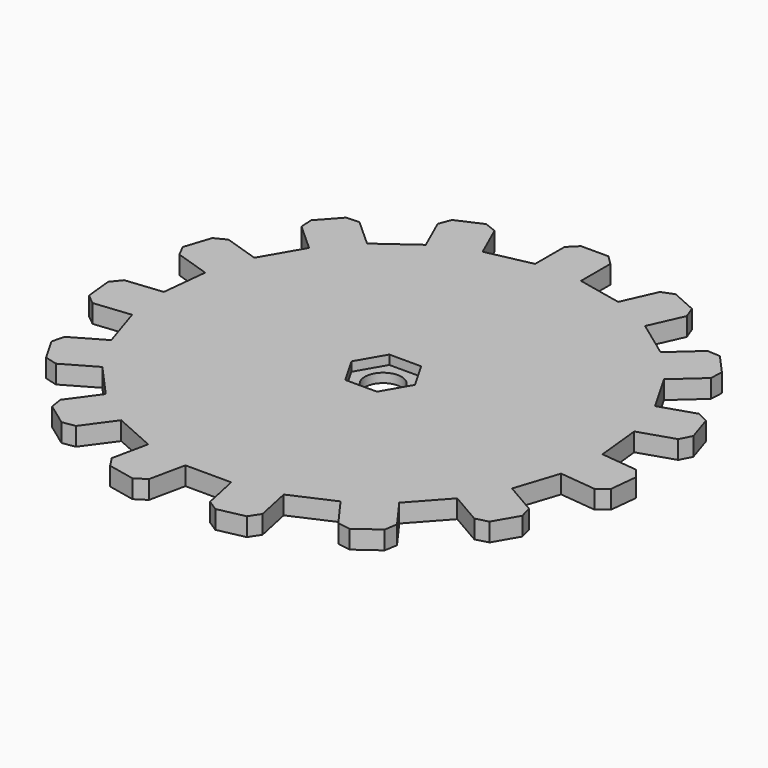
from build123d import *

# Parameters (mm, degrees)
F1_DEPTH  = 10
F2_DEPTH  = 25
F3_DEPTH  = 25
F4_DEPTH  = 25
F5_DEPTH  = 25
F6_DEPTH  = 25
F7_DEPTH  = 25
F8_DEPTH  = 25
F9_DEPTH  = 25
F10_DEPTH = 25
F11_DEPTH = 25
F12_DEPTH = 25
F13_DEPTH = 25
F14_DEPTH = 25
F15_DEPTH = 25
F16_DEPTH = 25
F17_SIZE  = 5
F0_R      = 10
F18_DEPTH = 5


with BuildPart() as f1:
    # F0 (on Top) → F1 (new body)
    with BuildSketch(Plane.XY):
        Polygon((-96.6750791953, 70.3877321793), (-109.1969291758, 48.7497121768), (-116.9463493664, 24.9810958252), (-119.5846529188, 0.1206857134), (-116.9965333079, -24.7449989432), (-109.2951037797, -48.5292084063), (-96.8169537602, -70.1924585931), (-80.1074382822, -88.7879615186), (-59.8968433531, -103.5030044738), (-37.0684689525, -113.6944694709), (-12.6200245844, -118.9169405856), (12.3799754156, -118.9421707699), (36.8389110842, -113.7690573437), (59.6878095658, -103.6236901871), (79.9280643554, -88.9494705277), (96.6750791953, -70.3877321793), (109.1969291758, -48.7497121768), (116.9463493664, -24.9810958252), (119.5846529188, -0.1206857134), (116.9965333079, 24.7449989432), (109.2951037797, 48.5292084063), (96.8169537602, 70.1924585931), (80.1074382822, 88.7879615186), (59.8968433531, 103.5030044738), (37.0684689525, 113.6944694709), (12.6200245844, 118.9169405856), (-12.3799754156, 118.9421707699), (-36.8389110842, 113.7690573437), (-59.6878095658, 103.6236901871), (-79.9280643554, 88.9494705277), align=None)
        Polygon((-8.6753877305, -14.9912523735), (-17.3204992552, 0.0174799755), (-8.6451115247, 15.008732349), (8.6753877305, 14.9912523735), (17.3204992552, -0.0174799755), (8.6451115247, -15.008732349), align=None, mode=Mode.SUBTRACT)
    extrude(amount=F1_DEPTH)

    # F2 (add): a face of the model
    f2_faces = [f1.faces().sort_by_distance(p)[0] for p in [
        (0.1200245844, 118.9295556778, 5),
    ]]
    extrude(f2_faces, amount=F2_DEPTH)

    # F3 (add): a face of the model
    f3_faces = [f1.faces().sort_by_distance(p)[0] for p in [
        (-48.263360325, 108.6963737654, 5),
    ]]
    extrude(f3_faces, amount=F3_DEPTH)

    # F4 (add): a face of the model
    f4_faces = [f1.faces().sort_by_distance(p)[0] for p in [
        (-88.3015717753, 79.6686013535, 5),
    ]]
    extrude(f4_faces, amount=F4_DEPTH)

    # F5 (add): a face of the model
    f5_faces = [f1.faces().sort_by_distance(p)[0] for p in [
        (-113.0716392711, 36.865404001, 5),
    ]]
    extrude(f5_faces, amount=F5_DEPTH)

    # F6 (add): a face of the model
    f6_faces = [f1.faces().sort_by_distance(p)[0] for p in [
        (-118.2905931133, -12.3121566149, 5),
    ]]
    extrude(f6_faces, amount=F6_DEPTH)

    # F7 (add): a face of the model
    f7_faces = [f1.faces().sort_by_distance(p)[0] for p in [
        (48.4826561528, 108.5987369723, 5),
    ]]
    extrude(f7_faces, amount=F7_DEPTH)

    # F8 (add): a face of the model
    f8_faces = [f1.faces().sort_by_distance(p)[0] for p in [
        (88.4621960212, 79.4902100558, 5),
    ]]
    extrude(f8_faces, amount=F8_DEPTH)

    # F9 (add): a face of the model
    f9_faces = [f1.faces().sort_by_distance(p)[0] for p in [
        (113.1458185438, 36.6371036748, 5),
    ]]
    extrude(f9_faces, amount=F9_DEPTH)

    # F10 (add): a face of the model
    f10_faces = [f1.faces().sort_by_distance(p)[0] for p in [
        (118.2655011426, -12.5508907693, 5),
    ]]
    extrude(f10_faces, amount=F10_DEPTH)

    # F11 (add): a face of the model
    f11_faces = [f1.faces().sort_by_distance(p)[0] for p in [
        (102.9360041856, -59.5687221781, 5),
    ]]
    extrude(f11_faces, amount=F11_DEPTH)

    # F12 (add): a face of the model
    f12_faces = [f1.faces().sort_by_distance(p)[0] for p in [
        (69.8079369606, -96.2865803574, 5),
    ]]
    extrude(f12_faces, amount=F12_DEPTH)

    # F13 (add): a face of the model
    f13_faces = [f1.faces().sort_by_distance(p)[0] for p in [
        (24.6094432499, -116.3556140568, 5),
    ]]
    extrude(f13_faces, amount=F13_DEPTH)

    # F14 (add): a face of the model
    f14_faces = [f1.faces().sort_by_distance(p)[0] for p in [
        (-24.8442467684, -116.3057050283, 5),
    ]]
    extrude(f14_faces, amount=F14_DEPTH)

    # F15 (add): a face of the model
    f15_faces = [f1.faces().sort_by_distance(p)[0] for p in [
        (-70.0021408176, -96.1454829962, 5),
    ]]
    extrude(f15_faces, amount=F15_DEPTH)

    # F16 (add): a face of the model
    f16_faces = [f1.faces().sort_by_distance(p)[0] for p in [
        (-103.05602877, -59.3608334997, 5),
    ]]
    extrude(f16_faces, amount=F16_DEPTH)

    # F17
    f17_edges = [f1.edges().sort_by_distance(p)[0] for p in [
        (144.44505, -2.758988, 5),
        (141.806747, -27.619398, 5),
        (140.780731, 32.446425, 5),
        (133.079301, 56.230634, 5),
        (115.412447, 86.901966, 5),
        (98.702932, 105.497468, 5),
        (70.088303, 126.331367, 5),
        (47.259929, 136.522832, 5),
        (12.645255, 143.916928, 5),
        (-12.354745, 143.942158, 5),
        (-46.984273, 136.617944, 5),
        (-69.833172, 126.472577, 5),
        (42.012022, -138.227981, 5),
        (17.553086, -143.401094, 5),
        (74.362022, -123.863935, 5),
        (94.602277, -109.189715, 5),
        (-98.489793, 105.696477, 5),
        (-74.611879, -123.713589, 5),
        (-17.842493, -143.365373, 5),
        (-42.290937, -138.142901, 5),
        (-118.480193, -82.670602, 5),
        (-141.862205, -27.333117, 5),
        (-140.714954, 32.730512, 5),
        (-144.450325, -2.467433, 5),
        (-130.958343, -61.007352, 5),
        (-132.965533, 56.499128, 5),
        (-115.236808, 87.134738, 5),
        (130.834938, -61.271556, 5),
        (118.313088, -82.909576, 5),
        (-94.822474, -108.998546, 5),
    ]]
    chamfer(f17_edges, length=F17_SIZE)

    # F0 (on Top) → F18 (join)
    with BuildSketch(Plane.XY):
        Polygon((-96.6750791953, 70.3877321793), (-109.1969291758, 48.7497121768), (-116.9463493664, 24.9810958252), (-119.5846529188, 0.1206857134), (-116.9965333079, -24.7449989432), (-109.2951037797, -48.5292084063), (-96.8169537602, -70.1924585931), (-80.1074382822, -88.7879615186), (-59.8968433531, -103.5030044738), (-37.0684689525, -113.6944694709), (-12.6200245844, -118.9169405856), (12.3799754156, -118.9421707699), (36.8389110842, -113.7690573437), (59.6878095658, -103.6236901871), (79.9280643554, -88.9494705277), (96.6750791953, -70.3877321793), (109.1969291758, -48.7497121768), (116.9463493664, -24.9810958252), (119.5846529188, -0.1206857134), (116.9965333079, 24.7449989432), (109.2951037797, 48.5292084063), (96.8169537602, 70.1924585931), (80.1074382822, 88.7879615186), (59.8968433531, 103.5030044738), (37.0684689525, 113.6944694709), (12.6200245844, 118.9169405856), (-12.3799754156, 118.9421707699), (-36.8389110842, 113.7690573437), (-59.6878095658, 103.6236901871), (-79.9280643554, 88.9494705277), align=None)
        Polygon((-8.6753877305, -14.9912523735), (-17.3204992552, 0.0174799755), (-8.6451115247, 15.008732349), (8.6753877305, 14.9912523735), (17.3204992552, -0.0174799755), (8.6451115247, -15.008732349), align=None, mode=Mode.SUBTRACT)
        Polygon((-8.6451115247, 15.008732349), (-17.3204992552, 0.0174799755), (-8.6753877305, -14.9912523735), (8.6451115247, -15.008732349), (17.3204992552, -0.0174799755), (8.6753877305, 14.9912523735), align=None)
        Circle(F0_R, mode=Mode.SUBTRACT)
    extrude(amount=F18_DEPTH)


solid = f1.part
